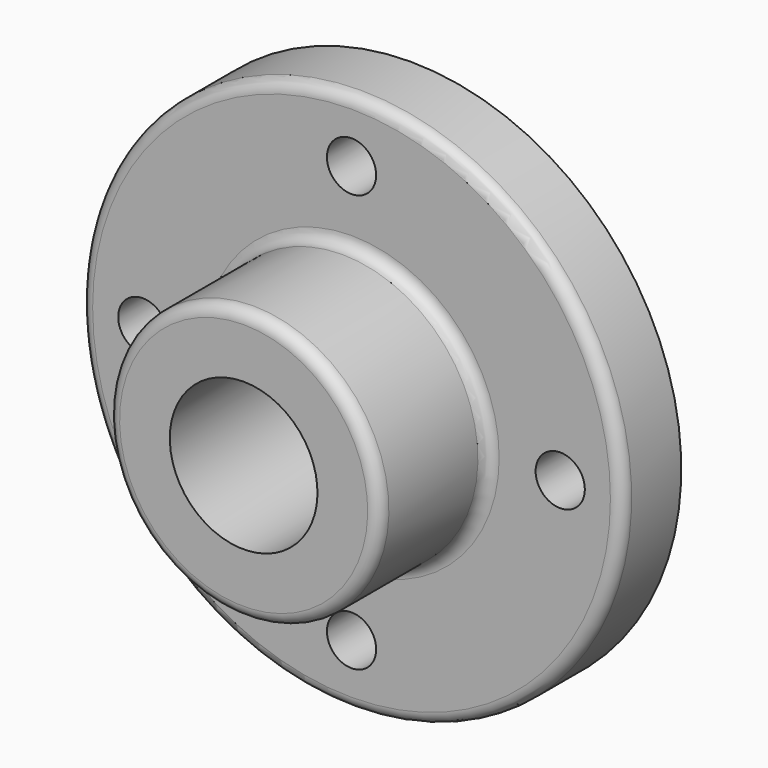
from build123d import *

# Parameters (mm, degrees)
F2_R     = 3.048
F3_R     = 6.35
F4_DEPTH = 19.051


with BuildPart() as f1:
    # F0 (on Right) → F1 (revolve)
    with BuildSketch(Plane.YZ):
        Polygon((0, 35.052), (0, 19.05), (53.848, 19.05), (53.848, 69.85), (34.798, 69.85), (34.798, 35.052), align=None)
    revolve(axis=Axis((0, 26.858481, 0), (0, 1, 0)))

    # F2
    f2_edges = [f1.edges().sort_by_distance(p)[0] for p in [
        (0, 0, -35.052),
        (0, 34.798, -35.052),
        (0, 34.798, -69.85),
    ]]
    fillet(f2_edges, radius=F2_R)

    # F3 (on face) → F4 (cut, through all)
    with BuildSketch(Plane.XZ.offset(-34.798)):
        with Locations((0, 53.848)):
            Circle(F3_R)
        with Locations((53.848, 0)):
            Circle(F3_R)
        with Locations((0, -53.848)):
            Circle(F3_R)
        with Locations((-53.848, 0)):
            Circle(F3_R)
    extrude(amount=-F4_DEPTH, mode=Mode.SUBTRACT)


solid = f1.part
